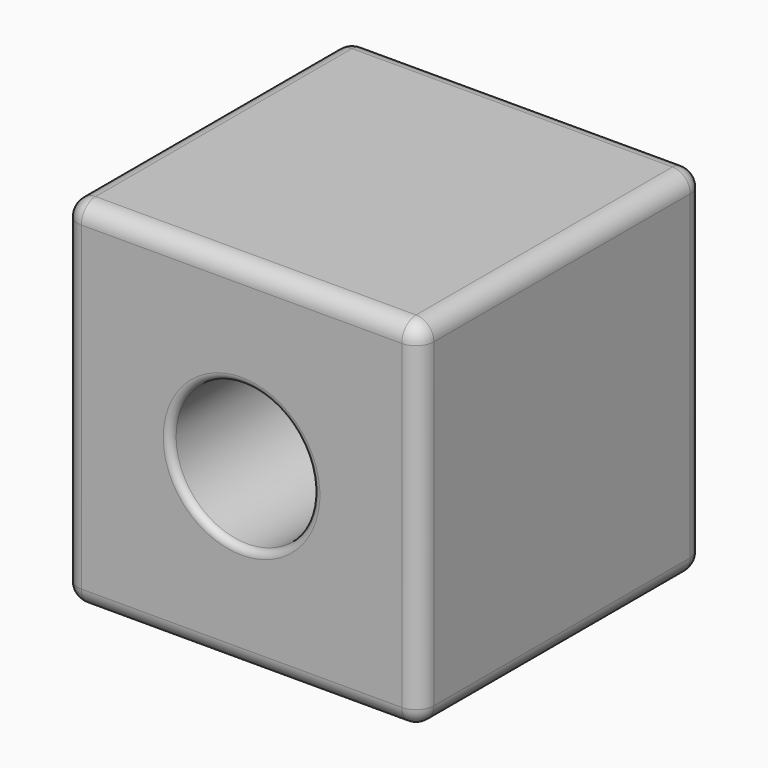
from build123d import *

# Parameters (mm, degrees)
F0_W     = 254
F0_H     = 254
F1_DEPTH = 127
F2_R     = 12.7
F3_R     = 50.8
F4_DEPTH = 254.001
F5_R     = 5.08


with BuildPart() as f1:
    # F0 (on Front) → F1 (new body, symmetric)
    with BuildSketch(Plane.XZ):
        Rectangle(F0_W, F0_H)
    extrude(amount=F1_DEPTH, both=True)

    # F2
    f2_edges = [f1.edges().sort_by_distance(p)[0] for p in [
        (127, -127, 0),
        (0, -127, 127),
        (-127, -127, 0),
        (0, -127, -127),
        (-127, 0, 127),
        (-127, 127, 0),
        (-127, 0, -127),
        (127, 0, 127),
        (0, 127, 127),
        (127, 127, 0),
        (0, 127, -127),
        (127, 0, -127),
    ]]
    fillet(f2_edges, radius=F2_R)

    # F3 (on face) → F4 (cut, through all)
    with BuildSketch(Plane(origin=(0, 127, 0), x_dir=(-1, 0, 0), z_dir=(0, 1, 0))):
        Circle(F3_R)
    extrude(amount=-F4_DEPTH, mode=Mode.SUBTRACT)

    # F5
    f5_edges = [f1.edges().sort_by_distance(p)[0] for p in [
        (50.8, 127, 0),
        (50.8, -127, 0),
    ]]
    fillet(f5_edges, radius=F5_R)


solid = f1.part
